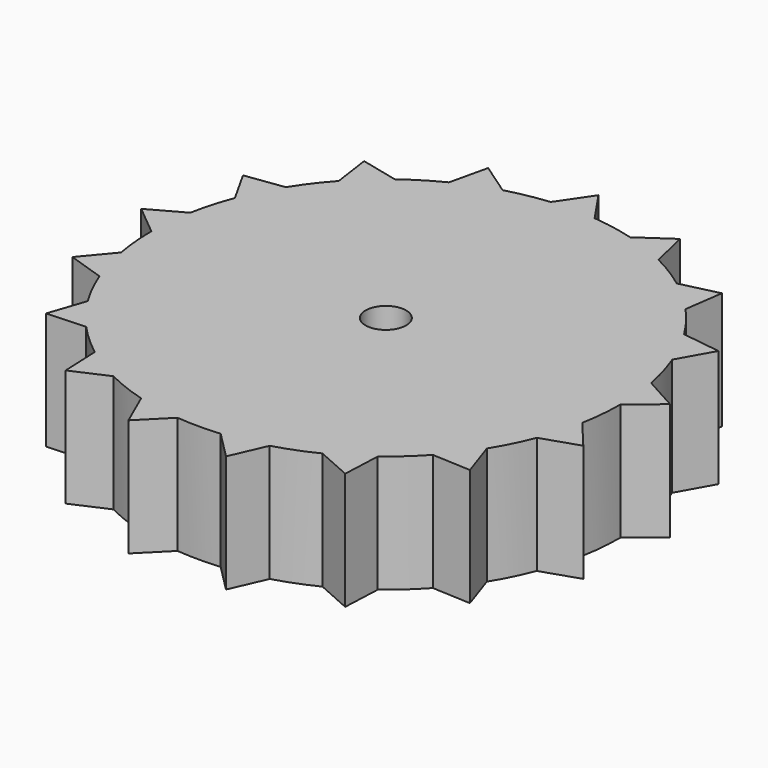
from build123d import *

# Parameters (mm, degrees)
F0_R     = 3.302
F1_DEPTH = 19.05


with BuildPart() as f1:
    # F0 (on Top) → F1 (new body)
    with BuildSketch(Plane.XY):
        with BuildLine():
            ThreePointArc((10.3583260114, 36.6649025942), (6.9953685106, 37.4523005889), (3.5749223592, 37.9319117647))
            ThreePointArc((3.5749223592, 37.9319117647), (1.7894359118, 38.0579547417), (0, 38.1))
            ThreePointArc((0, 38.1), (-1.7894359118, 38.0579547417), (-3.5749223592, 37.9319117647))
            ThreePointArc((-3.5749223592, 37.9319117647), (-6.9953685106, 37.4523005889), (-10.3583260114, 36.6649025942))
            ThreePointArc((-10.3583260114, 36.6649025942), (-12.0685716334, 36.1380627418), (-13.7521919191, 35.5314961326))
            ThreePointArc((-13.7521919191, 35.5314961326), (-15.4046733923, 34.8468942329), (-17.0232026859, 34.0854891459))
            ThreePointArc((-17.0232026859, 34.0854891459), (-20.043465356, 32.4016897171), (-22.8986264736, 30.450991866))
            ThreePointArc((-22.8986264736, 30.450991866), (-24.3017474593, 29.3433990946), (-25.6513716497, 28.1712110583))
            ThreePointArc((-25.6513716497, 28.1712110583), (-26.9433776908, 26.9381587829), (-28.1761796584, 25.6459139017))
            ThreePointArc((-28.1761796584, 25.6459139017), (-30.3898416418, 22.9797198631), (-32.3520943167, 20.1234190266))
            ThreePointArc((-32.3520943167, 20.1234190266), (-33.2587932077, 18.5866262234), (-34.0925451571, 17.0090671323))
            ThreePointArc((-34.0925451571, 17.0090671323), (-34.850649889, 15.3961749248), (-35.5325008857, 13.7495956597))
            ThreePointArc((-35.5325008857, 13.7495956597), (-36.6375523151, 10.4546525701), (-37.4377693794, 7.0727239376))
            ThreePointArc((-37.4377693794, 7.0727239376), (-37.7272799225, 5.3162345369), (-37.9344264404, 3.548139039))
            ThreePointArc((-37.9344264404, 3.548139039), (-38.0586453199, 1.7746876952), (-38.0999999094, -0.002627639))
            ThreePointArc((-38.0999999094, -0.002627639), (-37.9402497555, -3.4853189945), (-37.4628173003, -6.938826985))
            ThreePointArc((-37.4628173003, -6.938826985), (-37.0988170111, -8.6768529074), (-36.6542295707, -10.3960307125))
            ThreePointArc((-36.6542295707, -10.3960307125), (-36.1307521934, -12.0904402708), (-35.5289940754, -13.7586547304))
            ThreePointArc((-35.5289940754, -13.7586547304), (-34.1178249717, -16.9583023679), (-32.4192289635, -20.015084147))
            ThreePointArc((-32.4192289635, -20.015084147), (-31.4537756655, -21.5004650271), (-30.4203176662, -22.939360782))
            ThreePointArc((-30.4203176662, -22.939360782), (-29.3223073038, -24.3271924887), (-28.1610369919, -25.6625407071))
            ThreePointArc((-28.1610369919, -25.6625407071), (-25.6829106001, -28.1424608573), (-22.9873211216, -30.3840923454))
            ThreePointArc((-22.9873211216, -30.3840923454), (-21.5527887081, -31.4179454915), (-20.0718320683, -32.3841250835))
            ThreePointArc((-20.0718320683, -32.3841250835), (-18.5487381489, -33.279938598), (-16.9857473781, -34.1041696279))
            ThreePointArc((-16.9857473781, -34.1041696279), (-13.7735289525, -35.5232304302), (-10.4442981946, -36.6405053898))
            ThreePointArc((-10.4442981946, -36.6405053898), (-8.7349433821, -37.0851825412), (-7.0068164437, -37.4501605247))
            ThreePointArc((-7.0068164437, -37.4501605247), (-5.2640649753, -37.7345944716), (-3.5100061972, -37.9379738059))
            ThreePointArc((-3.5100061972, -37.9379738059), (0, -38.1), (3.5100061972, -37.9379738059))
            ThreePointArc((3.5100061972, -37.9379738059), (5.2640649753, -37.7345944716), (7.0068164437, -37.4501605247))
            ThreePointArc((7.0068164437, -37.4501605247), (8.7349433821, -37.0851825412), (10.4442981946, -36.6405053898))
            ThreePointArc((10.4442981946, -36.6405053898), (13.7735289525, -35.5232304302), (16.9857473781, -34.1041696279))
            ThreePointArc((16.9857473781, -34.1041696279), (18.5487381489, -33.279938598), (20.0718320683, -32.3841250835))
            ThreePointArc((20.0718320683, -32.3841250835), (21.5527887081, -31.4179454915), (22.9873211216, -30.3840923454))
            ThreePointArc((22.9873211216, -30.3840923454), (25.6829106001, -28.1424608573), (28.1610369919, -25.6625407071))
            ThreePointArc((28.1610369919, -25.6625407071), (29.3223073038, -24.3271924887), (30.4203176662, -22.939360782))
            ThreePointArc((30.4203176662, -22.939360782), (31.4537756655, -21.5004650271), (32.4192289635, -20.015084147))
            ThreePointArc((32.4192289635, -20.015084147), (34.1178249717, -16.9583023679), (35.5289940754, -13.7586547304))
            ThreePointArc((35.5289940754, -13.7586547304), (36.1307521934, -12.0904402708), (36.6542295707, -10.3960307125))
            ThreePointArc((36.6542295707, -10.3960307125), (37.0988170111, -8.6768529074), (37.4628173003, -6.938826985))
            ThreePointArc((37.4628173003, -6.938826985), (37.9402497555, -3.4853189945), (38.0999999094, -0.002627639))
            ThreePointArc((38.0999999094, -0.002627639), (38.0999999773, -0.0013138195), (38.1, 0))
            ThreePointArc((38.1, 0), (38.0585840999, 1.7760000875), (37.9344264404, 3.548139039))
            ThreePointArc((37.9344264404, 3.548139039), (37.7272799225, 5.3162345369), (37.4377693794, 7.0727239376))
            ThreePointArc((37.4377693794, 7.0727239376), (36.6375523151, 10.4546525701), (35.5325008857, 13.7495956597))
            ThreePointArc((35.5325008857, 13.7495956597), (34.850649889, 15.3961749248), (34.0925451571, 17.0090671323))
            ThreePointArc((34.0925451571, 17.0090671323), (33.2587932077, 18.5866262234), (32.3520943167, 20.1234190266))
            ThreePointArc((32.3520943167, 20.1234190266), (30.3898416418, 22.9797198631), (28.1761796584, 25.6459139017))
            ThreePointArc((28.1761796584, 25.6459139017), (26.9433776908, 26.9381587829), (25.6513716497, 28.1712110583))
            ThreePointArc((25.6513716497, 28.1712110583), (24.3017474593, 29.3433990946), (22.8986264736, 30.450991866))
            ThreePointArc((22.8986264736, 30.450991866), (20.043465356, 32.4016897171), (17.0232026859, 34.0854891459))
            ThreePointArc((17.0232026859, 34.0854891459), (15.4046733923, 34.8468942329), (13.7521919191, 35.5314961326))
            ThreePointArc((13.7521919191, 35.5314961326), (12.0685716334, 36.1380627418), (10.3583260114, 36.6649025942))
        make_face()
        Circle(F0_R, mode=Mode.SUBTRACT)
        with BuildLine():
            ThreePointArc((0, 38.1), (1.7894359118, 38.0579547417), (3.5749223592, 37.9319117647))
            Line((3.5749223592, 37.9319117647), (0, 43.18))
            Line((0, 43.18), (0, 38.1))
        make_face()
        with BuildLine():
            ThreePointArc((-3.5749223592, 37.9319117647), (-1.7894359118, 38.0579547417), (0, 38.1))
            Line((0, 38.1), (0, 43.18))
            Line((0, 43.18), (-3.5749223592, 37.9319117647))
        make_face()
        with BuildLine():
            Line((15.5864953389, 40.2663790638), (10.3583260114, 36.6649025942))
            ThreePointArc((10.3583260114, 36.6649025942), (12.0685716334, 36.1380627418), (13.7521919191, 35.5314961326))
            Line((13.7521919191, 35.5314961326), (15.5864953389, 40.2663790638))
        make_face()
        with BuildLine():
            Line((15.5864953389, 40.2663790638), (13.7521919191, 35.5314961326))
            ThreePointArc((13.7521919191, 35.5314961326), (15.4046733923, 34.8468942329), (17.0232026859, 34.0854891459))
            Line((17.0232026859, 34.0854891459), (15.5864953389, 40.2663790638))
        make_face()
        with BuildLine():
            ThreePointArc((-13.7521919191, 35.5314961326), (-12.0685716334, 36.1380627418), (-10.3583260114, 36.6649025942))
            Line((-10.3583260114, 36.6649025942), (-15.5864953389, 40.2663790638))
            Line((-15.5864953389, 40.2663790638), (-13.7521919191, 35.5314961326))
        make_face()
        with BuildLine():
            ThreePointArc((-17.0232026859, 34.0854891459), (-15.4046733923, 34.8468942329), (-13.7521919191, 35.5314961326))
            Line((-13.7521919191, 35.5314961326), (-15.5864953389, 40.2663790638))
            Line((-15.5864953389, 40.2663790638), (-17.0232026859, 34.0854891459))
        make_face()
        with BuildLine():
            Line((29.0679481145, 31.9190169075), (22.8986264736, 30.450991866))
            ThreePointArc((22.8986264736, 30.450991866), (24.3017474593, 29.3433990946), (25.6513716497, 28.1712110583))
            Line((25.6513716497, 28.1712110583), (29.0679481145, 31.9190169075))
        make_face()
        with BuildLine():
            Line((29.0679481145, 31.9190169075), (25.6513716497, 28.1712110583))
            ThreePointArc((25.6513716497, 28.1712110583), (26.9433776908, 26.9381587829), (28.1761796584, 25.6459139017))
            Line((28.1761796584, 25.6459139017), (29.0679481145, 31.9190169075))
        make_face()
        with BuildLine():
            ThreePointArc((-25.6513716497, 28.1712110583), (-24.3017474593, 29.3433990946), (-22.8986264736, 30.450991866))
            Line((-22.8986264736, 30.450991866), (-29.0679481145, 31.9190169075))
            Line((-29.0679481145, 31.9190169075), (-25.6513716497, 28.1712110583))
        make_face()
        with BuildLine():
            ThreePointArc((-28.1761796584, 25.6459139017), (-26.9433776908, 26.9381587829), (-25.6513716497, 28.1712110583))
            Line((-25.6513716497, 28.1712110583), (-29.0679481145, 31.9190169075))
            Line((-29.0679481145, 31.9190169075), (-28.1761796584, 25.6459139017))
        make_face()
        with BuildLine():
            Line((38.6236134262, 19.2652710447), (32.3520943167, 20.1234190266))
            ThreePointArc((32.3520943167, 20.1234190266), (33.2587932077, 18.5866262234), (34.0925451571, 17.0090671323))
            Line((34.0925451571, 17.0090671323), (38.6236134262, 19.2652710447))
        make_face()
        with BuildLine():
            Line((38.6236134262, 19.2652710447), (34.0925451571, 17.0090671323))
            ThreePointArc((34.0925451571, 17.0090671323), (34.850649889, 15.3961749248), (35.5325008857, 13.7495956597))
            Line((35.5325008857, 13.7495956597), (38.6236134262, 19.2652710447))
        make_face()
        with BuildLine():
            ThreePointArc((-34.0925451571, 17.0090671323), (-33.2587932077, 18.5866262234), (-32.3520943167, 20.1234190266))
            Line((-32.3520943167, 20.1234190266), (-38.6236134262, 19.2652710447))
            Line((-38.6236134262, 19.2652710447), (-34.0925451571, 17.0090671323))
        make_face()
        with BuildLine():
            ThreePointArc((-35.5325008857, 13.7495956597), (-34.850649889, 15.3961749248), (-34.0925451571, 17.0090671323))
            Line((-34.0925451571, 17.0090671323), (-38.6236134262, 19.2652710447))
            Line((-38.6236134262, 19.2652710447), (-35.5325008857, 13.7495956597))
        make_face()
        with BuildLine():
            Line((42.9629457239, 4.014099971), (37.4377693794, 7.0727239376))
            ThreePointArc((37.4377693794, 7.0727239376), (37.7272799225, 5.3162345369), (37.9344264404, 3.548139039))
            Line((37.9344264404, 3.548139039), (42.9629457239, 4.014099971))
        make_face()
        with BuildLine():
            Line((42.9629457239, 4.014099971), (37.9344264404, 3.548139039))
            ThreePointArc((37.9344264404, 3.548139039), (38.0585840999, 1.7760000875), (38.1, 0))
            ThreePointArc((38.1, 0), (38.0999999773, -0.0013138195), (38.0999999094, -0.002627639))
            Line((38.0999999094, -0.002627639), (42.9629457239, 4.014099971))
        make_face()
        with BuildLine():
            ThreePointArc((-37.9344264404, 3.548139039), (-37.7272799225, 5.3162345369), (-37.4377693794, 7.0727239376))
            Line((-37.4377693794, 7.0727239376), (-42.9629457239, 4.014099971))
            Line((-42.9629457239, 4.014099971), (-37.9344264404, 3.548139039))
        make_face()
        with BuildLine():
            ThreePointArc((-38.0999999094, -0.002627639), (-38.0586453199, 1.7746876952), (-37.9344264404, 3.548139039))
            Line((-37.9344264404, 3.548139039), (-42.9629457239, 4.014099971))
            Line((-42.9629457239, 4.014099971), (-38.0999999094, -0.002627639))
        make_face()
        with BuildLine():
            Line((41.4998941356, -11.7747411505), (37.4628173003, -6.938826985))
            ThreePointArc((37.4628173003, -6.938826985), (37.0988170111, -8.6768529074), (36.6542295707, -10.3960307125))
            Line((36.6542295707, -10.3960307125), (41.4998941356, -11.7747411505))
        make_face()
        with BuildLine():
            Line((41.4998941356, -11.7747411505), (36.6542295707, -10.3960307125))
            ThreePointArc((36.6542295707, -10.3960307125), (36.1307521934, -12.0904402708), (35.5289940754, -13.7586547304))
            Line((35.5289940754, -13.7586547304), (41.4998941356, -11.7747411505))
        make_face()
        with BuildLine():
            ThreePointArc((-36.6542295707, -10.3960307125), (-37.0988170111, -8.6768529074), (-37.4628173003, -6.938826985))
            Line((-37.4628173003, -6.938826985), (-41.4998941356, -11.7747411505))
            Line((-41.4998941356, -11.7747411505), (-36.6542295707, -10.3960307125))
        make_face()
        with BuildLine():
            ThreePointArc((-35.5289940754, -13.7586547304), (-36.1307521934, -12.0904402708), (-36.6542295707, -10.3960307125))
            Line((-36.6542295707, -10.3960307125), (-41.4998941356, -11.7747411505))
            Line((-41.4998941356, -11.7747411505), (-35.5289940754, -13.7586547304))
        make_face()
        with BuildLine():
            Line((34.4320518855, -25.9688818373), (32.4192289635, -20.015084147))
            ThreePointArc((32.4192289635, -20.015084147), (31.4537756655, -21.5004650271), (30.4203176662, -22.939360782))
            Line((30.4203176662, -22.939360782), (34.4320518855, -25.9688818373))
        make_face()
        with BuildLine():
            Line((34.4320518855, -25.9688818373), (30.4203176662, -22.939360782))
            ThreePointArc((30.4203176662, -22.939360782), (29.3223073038, -24.3271924887), (28.1610369919, -25.6625407071))
            Line((28.1610369919, -25.6625407071), (34.4320518855, -25.9688818373))
        make_face()
        with BuildLine():
            ThreePointArc((-30.4203176662, -22.939360782), (-31.4537756655, -21.5004650271), (-32.4192289635, -20.015084147))
            Line((-32.4192289635, -20.015084147), (-34.4320518855, -25.9688818373))
            Line((-34.4320518855, -25.9688818373), (-30.4203176662, -22.939360782))
        make_face()
        with BuildLine():
            ThreePointArc((-28.1610369919, -25.6625407071), (-29.3223073038, -24.3271924887), (-30.4203176662, -22.939360782))
            Line((-30.4203176662, -22.939360782), (-34.4320518855, -25.9688818373))
            Line((-34.4320518855, -25.9688818373), (-28.1610369919, -25.6625407071))
        make_face()
        with BuildLine():
            Line((22.7139702337, -36.6513247372), (22.9873211216, -30.3840923454))
            ThreePointArc((22.9873211216, -30.3840923454), (21.5527887081, -31.4179454915), (20.0718320683, -32.3841250835))
            Line((20.0718320683, -32.3841250835), (22.7139702337, -36.6513247372))
        make_face()
        with BuildLine():
            Line((22.7139702337, -36.6513247372), (20.0718320683, -32.3841250835))
            ThreePointArc((20.0718320683, -32.3841250835), (18.5487381489, -33.279938598), (16.9857473781, -34.1041696279))
            Line((16.9857473781, -34.1041696279), (22.7139702337, -36.6513247372))
        make_face()
        with BuildLine():
            ThreePointArc((-20.0718320683, -32.3841250835), (-21.5527887081, -31.4179454915), (-22.9873211216, -30.3840923454))
            Line((-22.9873211216, -30.3840923454), (-22.7139702337, -36.6513247372))
            Line((-22.7139702337, -36.6513247372), (-20.0718320683, -32.3841250835))
        make_face()
        with BuildLine():
            ThreePointArc((-16.9857473781, -34.1041696279), (-18.5487381489, -33.279938598), (-20.0718320683, -32.3841250835))
            Line((-20.0718320683, -32.3841250835), (-22.7139702337, -36.6513247372))
            Line((-22.7139702337, -36.6513247372), (-16.9857473781, -34.1041696279))
        make_face()
        with BuildLine():
            Line((7.9282410393, -42.3793467431), (10.4442981946, -36.6405053898))
            ThreePointArc((10.4442981946, -36.6405053898), (8.7349433821, -37.0851825412), (7.0068164437, -37.4501605247))
            Line((7.0068164437, -37.4501605247), (7.9282410393, -42.3793467431))
        make_face()
        with BuildLine():
            Line((7.9282410393, -42.3793467431), (7.0068164437, -37.4501605247))
            ThreePointArc((7.0068164437, -37.4501605247), (5.2640649753, -37.7345944716), (3.5100061972, -37.9379738059))
            Line((3.5100061972, -37.9379738059), (7.9282410393, -42.3793467431))
        make_face()
        with BuildLine():
            ThreePointArc((-7.0068164437, -37.4501605247), (-8.7349433821, -37.0851825412), (-10.4442981946, -36.6405053898))
            Line((-10.4442981946, -36.6405053898), (-7.9282410393, -42.3793467431))
            Line((-7.9282410393, -42.3793467431), (-7.0068164437, -37.4501605247))
        make_face()
        with BuildLine():
            ThreePointArc((-3.5100061972, -37.9379738059), (-5.2640649753, -37.7345944716), (-7.0068164437, -37.4501605247))
            Line((-7.0068164437, -37.4501605247), (-7.9282410393, -42.3793467431))
            Line((-7.9282410393, -42.3793467431), (-3.5100061972, -37.9379738059))
        make_face()
    extrude(amount=F1_DEPTH)


solid = f1.part
